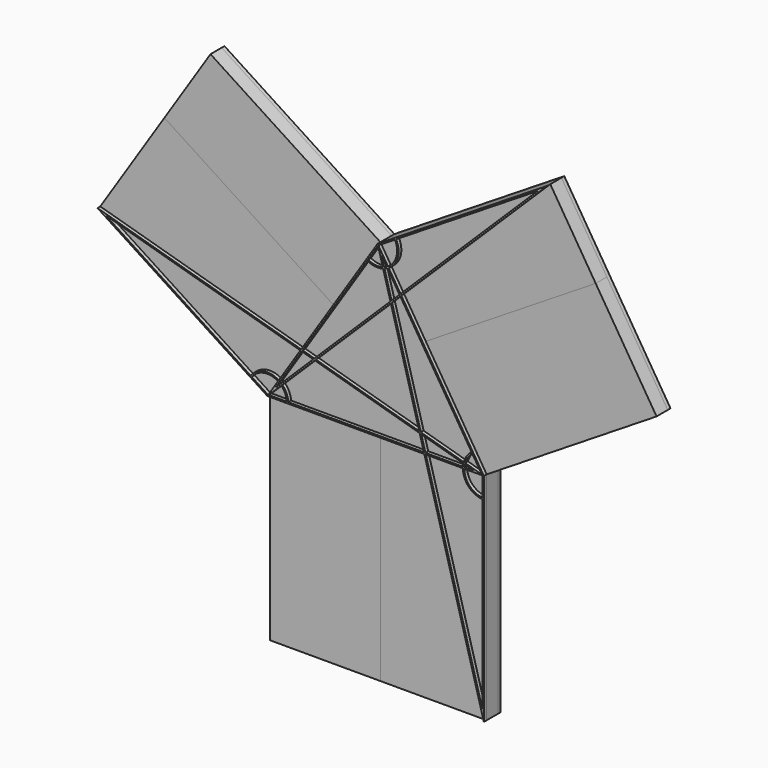
from build123d import *

# Parameters (mm, degrees)
F0_W      = 200.4671369366
F0_H      = 393.7
F0_W_2    = 193.2328630634
F1_DEPTH  = 6.35
F4_DEPTH  = 0.762
F5_DEPTH  = 25.4
F6_DEPTH  = 25.4
F7_DEPTH  = 25.4
F8_DEPTH  = 25.4
F10_DEPTH = 6.35
F12_DEPTH = 6.35
F14_DEPTH = 6.35


with BuildPart() as f1:
    # F0 (on Front) → F1 (new body)
    with BuildSketch(Plane.XZ):
        Polygon((-83.8269108523, -129.1950943436), (0, 0), (-308.9624847913, 200.4671369366), (-392.7893956437, 71.272042593), align=None)
        Polygon((-200.4671369366, -308.9624847913), (-83.8269108523, -129.1950943436), (-392.7893956437, 71.272042593), (-509.429621728, -108.4953478547), align=None)
        with Locations((-100.2335684683, -505.8124847913)):
            Rectangle(F0_W, F0_H)
        with Locations((96.6164315317, -505.8124847913)):
            Rectangle(F0_W_2, F0_H)
        Polygon((391.4973095124, 61.2668810695), (82.5348247211, -131.9659819939), (193.2328630634, -308.9624847913), (502.1953478547, -115.729621728), align=None)
        Polygon((308.9624847913, 193.2328630634), (0, 0), (82.5348247211, -131.9659819939), (391.4973095124, 61.2668810695), align=None)
        Polygon((193.2328630634, -308.9624847913), (82.5348247211, -131.9659819939), (0, -183.5853250156), align=None)
        Polygon((82.5348247211, -131.9659819939), (0, 0), (0, -183.5853250156), align=None)
        Polygon((0, -183.5853250156), (0, 0), (-83.8269108523, -129.1950943436), align=None)
        Polygon((0, -183.5853250156), (-83.8269108523, -129.1950943436), (-200.4671369366, -308.9624847913), align=None)
        Polygon((0, -308.9624847913), (0, -183.5853250156), (-200.4671369366, -308.9624847913), align=None)
        Polygon((193.2328630634, -308.9624847913), (0, -183.5853250156), (0, -308.9624847913), align=None)
    extrude(amount=-F1_DEPTH)

    # F2 (on face) + F3 (on face) → F4 (cut)
    with BuildSketch(Plane.XZ):
        with BuildLine():
            Line((-0.381, -182.8839444602), (0, -183.1311523995))
            Line((0, -183.1311523995), (0.0037617167, -183.1335931508))
            Line((0.0037617167, -183.1335931508), (0.381, -182.8976588962))
            Line((0.381, -182.8976588962), (0.381, 0))
            ThreePointArc((0.381, 0), (0, 0.381), (-0.381, 0))
            Line((-0.381, 0), (-0.381, -182.8839444602))
        make_face()
        Polygon((0, -183.1359458225), (0, -183.1311523995), (-0.381, -182.8839444602), (-0.381, -183.3381170764), (-0.3526576381, -183.356506727), align=None)
        Polygon((0.381, -182.8976588962), (0.0037617167, -183.1335931508), (0.3564193548, -183.3624114395), (0.381, -183.3470380894), align=None)
        with BuildLine():
            Line((-0.381, -183.3381170764), (-0.381, -182.8839444602))
            Line((-0.381, -182.8839444602), (-392.5820158468, 71.5916589566))
            ThreePointArc((-392.5820158468, 71.5916589566), (-393.1090120072, 71.4794223899), (-392.9967754405, 70.9524262295))
            Line((-392.9967754405, 70.9524262295), (-0.7090769929, -183.5794203031))
            Line((-0.7090769929, -183.5794203031), (-0.381, -183.3742327487))
            Line((-0.381, -183.3742327487), (-0.381, -183.3381170764))
        make_face()
        with BuildLine():
            Line((391.2952812025, 61.5899067062), (0.381, -182.8976588962))
            Line((0.381, -182.8976588962), (0.381, -183.3470380894))
            Line((0.381, -183.3470380894), (0.381, -183.3783603388))
            Line((0.381, -183.3783603388), (0.7090769929, -183.5912297281))
            Line((0.7090769929, -183.5912297281), (391.6993378223, 60.9438554327))
            ThreePointArc((391.6993378223, 60.9438554327), (391.8203351492, 61.4689093794), (391.2952812025, 61.5899067062))
        make_face()
        Polygon((0.3526576381, -183.8141433043), (0, -184.0347042088), (0, -184.0394976317), (0.381, -184.286705571), (0.381, -183.8325329549), align=None)
        Polygon((-0.0037617167, -184.0370568805), (-0.3564193548, -183.8082385918), (-0.381, -183.8236119419), (-0.381, -184.272991135), align=None)
        Polygon((-0.381, -183.7922896925), (-0.381, -183.3742327487), (-0.7090769929, -183.5794203031), align=None)
        Polygon((0.7090769929, -183.5912297281), (0.381, -183.3783603388), (0.381, -183.7964172825), align=None)
        with BuildLine():
            Line((0.381, -184.286705571), (0, -184.0394976317))
            Line((0, -184.0394976317), (-0.0037617167, -184.0370568805))
            Line((-0.0037617167, -184.0370568805), (-0.381, -184.272991135))
            Line((-0.381, -184.272991135), (-0.381, -702.6624847913))
            ThreePointArc((-0.381, -702.6624847913), (0, -703.0434847913), (0.381, -702.6624847913))
            Line((0.381, -702.6624847913), (0.381, -184.286705571))
        make_face()
        with BuildLine():
            Line((0.381, -183.7964172825), (0.381, -183.8325329549))
            Line((0.381, -183.8325329549), (0.381, -184.286705571))
            Line((0.381, -184.286705571), (193.0254832665, -309.2821011549))
            ThreePointArc((193.0254832665, -309.2821011549), (193.552479427, -309.1698645882), (193.4402428602, -308.6428684278))
            Line((193.4402428602, -308.6428684278), (0.7090769929, -183.5912297281))
            Line((0.7090769929, -183.5912297281), (0.381, -183.7964172825))
        make_face()
        with BuildLine():
            Line((-0.381, -184.272991135), (-0.381, -183.8236119419))
            Line((-0.381, -183.8236119419), (-0.381, -183.7922896925))
            Line((-0.381, -183.7922896925), (-0.7090769929, -183.5794203031))
            Line((-0.7090769929, -183.5794203031), (-200.6691652465, -308.6394591546))
            ThreePointArc((-200.6691652465, -308.6394591546), (-200.7901625734, -309.1645131012), (-200.2651086267, -309.2855104281))
            Line((-200.2651086267, -309.2855104281), (-0.381, -184.272991135))
        make_face()
    with BuildSketch(Plane.XZ):
        with BuildLine():
            Line((-0.2288182887, -0.3526576381), (0, 0))
            Line((0, 0), (0.2229135762, -0.3564193548))
            Line((0.2229135762, -0.3564193548), (0.3196163636, -0.2073797968))
            ThreePointArc((0.3196163636, -0.2073797968), (0.3809867906, -0.0031725997), (0.3230256367, 0.2020283099))
            ThreePointArc((0.3230256367, 0.2020283099), (0.0031725997, 0.3809867906), (-0.3196163636, 0.2073797968))
            ThreePointArc((-0.3196163636, 0.2073797968), (-0.3809867906, 0.0031725997), (-0.3230256367, -0.2020283099))
            Line((-0.3230256367, -0.2020283099), (-0.2288182887, -0.3526576381))
        make_face()
        with BuildLine():
            Line((-200.2199289974, -308.5814847913), (-0.2288182887, -0.3526576381))
            Line((-0.2288182887, -0.3526576381), (-0.3230256367, -0.2020283099))
            ThreePointArc((-0.3230256367, -0.2020283099), (-0.3809867906, 0.0031725997), (-0.3196163636, 0.2073797968))
            Line((-0.3196163636, 0.2073797968), (-200.7867533002, -308.7551049945))
            ThreePointArc((-200.7867533002, -308.7551049945), (-200.6490013056, -308.6276917936), (-200.4671369366, -308.5814847913))
            Line((-200.4671369366, -308.5814847913), (-200.2199289974, -308.5814847913))
        make_face()
        with BuildLine():
            Line((0.3196163636, -0.2073797968), (0.2229135762, -0.3564193548))
            Line((0.2229135762, -0.3564193548), (192.9945761371, -308.5814847913))
            Line((192.9945761371, -308.5814847913), (193.2328630634, -308.5814847913))
            ThreePointArc((193.2328630634, -308.5814847913), (193.4175089595, -308.6292177917), (193.5558887001, -308.7604564814))
            Line((193.5558887001, -308.7604564814), (0.3230256367, 0.2020283099))
            ThreePointArc((0.3230256367, 0.2020283099), (0.3809867906, -0.0031725997), (0.3196163636, -0.2073797968))
        make_face()
        with BuildLine():
            Line((-200.4671369366, -308.9624847913), (-200.2199289974, -308.5814847913))
            Line((-200.2199289974, -308.5814847913), (-200.4671369366, -308.5814847913))
            ThreePointArc((-200.4671369366, -308.5814847913), (-200.6490013056, -308.6276917936), (-200.7867533002, -308.7551049945))
            ThreePointArc((-200.7867533002, -308.7551049945), (-200.8019299343, -309.1443491603), (-200.4671369366, -309.3434847913))
            ThreePointArc((-200.4671369366, -309.3434847913), (-200.2852725676, -309.297277789), (-200.147520573, -309.1698645882))
            Line((-200.147520573, -309.1698645882), (-200.0129643205, -308.9624847913))
            Line((-200.0129643205, -308.9624847913), (-200.4671369366, -308.9624847913))
        make_face()
        with BuildLine():
            Line((193.2328630634, -308.5814847913), (192.9945761371, -308.5814847913))
            Line((192.9945761371, -308.5814847913), (193.2328630634, -308.9624847913))
            Line((193.2328630634, -308.9624847913), (192.7834838702, -308.9624847913))
            Line((192.7834838702, -308.9624847913), (192.9098374266, -309.1645131012))
            ThreePointArc((192.9098374266, -309.1645131012), (193.0482171672, -309.295751791), (193.2328630634, -309.3434847913))
            ThreePointArc((193.2328630634, -309.3434847913), (193.566130063, -309.1471306875), (193.5558887001, -308.7604564814))
            ThreePointArc((193.5558887001, -308.7604564814), (193.4175089595, -308.6292177917), (193.2328630634, -308.5814847913))
        make_face()
        with BuildLine():
            Line((192.7834838702, -308.9624847913), (-200.0129643205, -308.9624847913))
            Line((-200.0129643205, -308.9624847913), (-200.147520573, -309.1698645882))
            ThreePointArc((-200.147520573, -309.1698645882), (-200.2852725676, -309.297277789), (-200.4671369366, -309.3434847913))
            Line((-200.4671369366, -309.3434847913), (193.2328630634, -309.3434847913))
            ThreePointArc((193.2328630634, -309.3434847913), (193.0482171672, -309.295751791), (192.9098374266, -309.1645131012))
            Line((192.9098374266, -309.1645131012), (192.7834838702, -308.9624847913))
        make_face()
    extrude(amount=-F4_DEPTH, mode=Mode.SUBTRACT)


with BuildPart() as f5:
    # F0 (on Front) → F5 (new body)
    with BuildSketch(Plane.XZ):
        Polygon((-200.4671369366, -308.9624847913), (-83.8269108523, -129.1950943436), (-392.7893956437, 71.272042593), (-509.429621728, -108.4953478547), align=None)
    extrude(amount=F5_DEPTH)


with BuildPart() as f5b:
    # F0 (on Front) → F5, piece 2 (new body)
    with BuildSketch(Plane.XZ):
        with Locations((-100.2335684683, -505.8124847913)):
            Rectangle(F0_W, F0_H)
    extrude(amount=F5_DEPTH)


with BuildPart() as f6:
    # F0 (on Front) → F6 (new body)
    with BuildSketch(Plane.XZ):
        Polygon((391.4973095124, 61.2668810695), (82.5348247211, -131.9659819939), (193.2328630634, -308.9624847913), (502.1953478547, -115.729621728), align=None)
    extrude(amount=F6_DEPTH)


with BuildPart() as f6b:
    # F0 (on Front) → F6, piece 2 (new body)
    with BuildSketch(Plane.XZ):
        with Locations((96.6164315317, -505.8124847913)):
            Rectangle(F0_W_2, F0_H)
    extrude(amount=F6_DEPTH)


with BuildPart() as f7:
    # F0 (on Front) → F7 (new body)
    with BuildSketch(Plane.XZ):
        Polygon((308.9624847913, 193.2328630634), (0, 0), (82.5348247211, -131.9659819939), (391.4973095124, 61.2668810695), align=None)
    extrude(amount=F7_DEPTH)


with BuildPart() as f7b:
    # F0 (on Front) → F7, piece 2 (new body)
    with BuildSketch(Plane.XZ):
        Polygon((-83.8269108523, -129.1950943436), (0, 0), (-308.9624847913, 200.4671369366), (-392.7893956437, 71.272042593), align=None)
    extrude(amount=F7_DEPTH)


with BuildPart() as f8:
    # F0 (on Front) → F8 (new body)
    with BuildSketch(Plane.XZ):
        Polygon((0, -308.9624847913), (0, -183.5853250156), (-200.4671369366, -308.9624847913), align=None)
        Polygon((0, -183.5853250156), (-83.8269108523, -129.1950943436), (-200.4671369366, -308.9624847913), align=None)
        Polygon((0, -183.5853250156), (0, 0), (-83.8269108523, -129.1950943436), align=None)
        Polygon((82.5348247211, -131.9659819939), (0, 0), (0, -183.5853250156), align=None)
        Polygon((193.2328630634, -308.9624847913), (82.5348247211, -131.9659819939), (0, -183.5853250156), align=None)
        Polygon((193.2328630634, -308.9624847913), (0, -183.5853250156), (0, -308.9624847913), align=None)
    extrude(amount=F8_DEPTH)


with BuildPart() as f10:
    # F9 (on face) → F10 (new body)
    with BuildSketch(Plane.XZ.offset(25.4)):
        Polygon((-509.429621728, -108.4953478547), (-200.4671369366, -308.9624847913), (193.2328630634, -308.9624847913), align=None)
        with BuildLine():
            Line((-164.9979672255, -306.4224847913), (-199.7153065322, -306.4224847913))
            Line((-199.7153065322, -306.4224847913), (-228.8392691105, -287.525700613))
            ThreePointArc((-228.8392691105, -287.525700613), (-190.3743623666, -274.8648382233), (-164.9979672255, -306.4224847913))
        make_face(mode=Mode.SUBTRACT)
        with BuildLine():
            ThreePointArc((-162.451897887, -306.4224847913), (-189.6534498973, -272.4292920399), (-230.9751363634, -286.1398650693))
            Line((-230.9751363634, -286.1398650693), (-493.8354222417, -115.5856666852))
            Line((-493.8354222417, -115.5856666852), (175.0715859056, -306.4224847913))
            Line((175.0715859056, -306.4224847913), (-162.451897887, -306.4224847913))
        make_face(mode=Mode.SUBTRACT)
    extrude(amount=F10_DEPTH)


with BuildPart() as f12:
    # F11 (on face) → F12 (new body)
    with BuildSketch(Plane.XZ.offset(25.4)):
        Polygon((193.2328630634, -308.9624847913), (0, 0), (193.2328630634, -702.6624847913), align=None)
        with BuildLine():
            Line((7.0526502984, -16.0666931019), (170.9214730014, -278.0786399287))
            ThreePointArc((170.9214730014, -278.0786399287), (156.6108909975, -319.4715838016), (190.6928630634, -346.977723841))
            Line((190.6928630634, -346.977723841), (190.6928630634, -683.8469358795))
            Line((190.6928630634, -683.8469358795), (7.0526502984, -16.0666931019))
        make_face(mode=Mode.SUBTRACT)
        with BuildLine():
            Line((172.2715467163, -280.2372899792), (190.6928630634, -309.6913672076))
            Line((190.6928630634, -309.6913672076), (190.6928630634, -344.4316545025))
            ThreePointArc((190.6928630634, -344.4316545025), (159.0523558019, -318.770977201), (172.2715467163, -280.2372899792))
        make_face(mode=Mode.SUBTRACT)
    extrude(amount=F12_DEPTH)


with BuildPart() as f14:
    # F13 (on face) → F14 (new body)
    with BuildSketch(Plane.XZ.offset(25.4)):
        Polygon((308.9624847913, 193.2328630634), (0, 0), (-200.4671369366, -308.9624847913), align=None)
        with BuildLine():
            ThreePointArc((-18.5610682076, -33.2730633845), (26.7154976406, -27.1641709944), (33.5775556616, 18.0043815721))
            Line((33.5775556616, 18.0043815721), (290.7521120151, 178.8477793225))
            Line((290.7521120151, 178.8477793225), (-185.6435850577, -290.7827498101))
            Line((-185.6435850577, -290.7827498101), (-18.5610682076, -33.2730633845))
        make_face(mode=Mode.SUBTRACT)
        with BuildLine():
            Line((-17.175232664, -31.1371961316), (1.8242757965, -1.8549135915))
            Line((1.8242757965, -1.8549135915), (31.4189056111, 16.6543078572))
            ThreePointArc((31.4189056111, 16.6543078572), (24.9344644646, -25.3532262615), (-17.175232664, -31.1371961316))
        make_face(mode=Mode.SUBTRACT)
    extrude(amount=F14_DEPTH)


solid = Compound([f1.part, f5.part, f5b.part, f6.part, f6b.part, f7.part, f7b.part, f8.part, f10.part, f12.part, f14.part])
